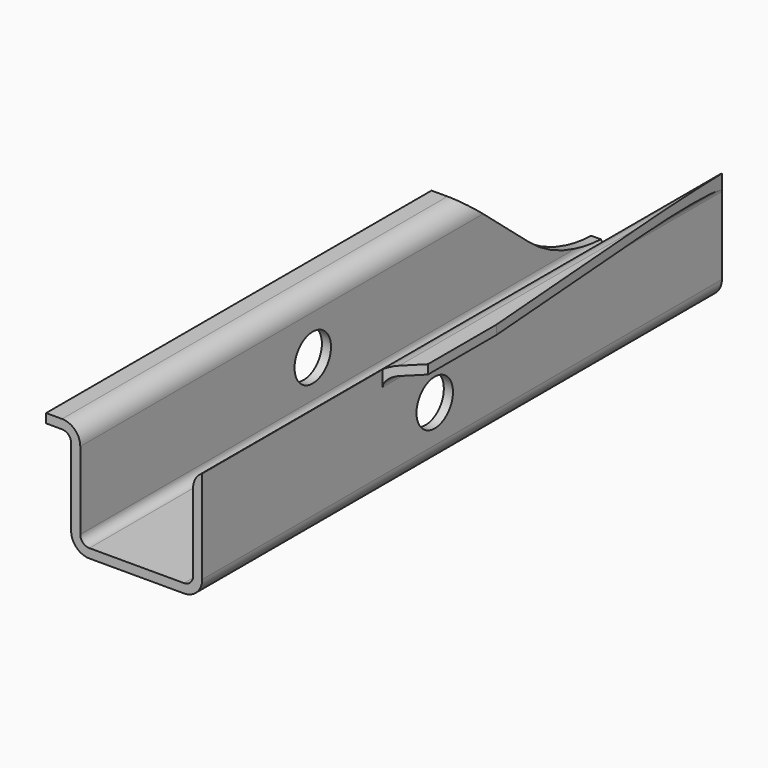
from build123d import *

# Parameters (mm, degrees)
F1_DEPTH = 114
F3_DEPTH = 25
F5_DEPTH = 5
F6_R     = 4
F7_DEPTH = 30
F9_DEPTH = 5


with BuildPart() as f1:
    # F0 (on Front) → F1 (new body)
    with BuildSketch(Plane.XZ):
        with BuildLine():
            ThreePointArc((-11.5, 3.2), (-10.5627416998, 0.9372583002), (-8.3, 0))
            Line((-8.3, 0), (0, 0))
            Line((0, 0), (8.3, 0))
            ThreePointArc((8.3, 0), (10.5627416998, 0.9372583002), (11.5, 3.2))
            Line((11.5, 3.2), (11.5, 16.8))
            ThreePointArc((11.5, 16.8), (11.9686291501, 17.9313708499), (13.1, 18.4))
            Line((13.1, 18.4), (15.9, 18.4))
            Line((15.9, 18.4), (15.9, 20))
            Line((15.9, 20), (13.1, 20))
            ThreePointArc((13.1, 20), (10.8372583002, 19.0627416998), (9.9, 16.8))
            Line((9.9, 16.8), (9.9, 3.2))
            ThreePointArc((9.9, 3.2), (9.4313708499, 2.0686291501), (8.3, 1.6))
            Line((8.3, 1.6), (0, 1.6))
            Line((0, 1.6), (-8.3, 1.6))
            ThreePointArc((-8.3, 1.6), (-9.4313708499, 2.0686291501), (-9.9, 3.2))
            Line((-9.9, 3.2), (-9.9, 16.8))
            ThreePointArc((-9.9, 16.8), (-10.8372583002, 19.0627416998), (-13.1, 20))
            Line((-13.1, 20), (-15.9, 20))
            Line((-15.9, 20), (-15.9, 18.4))
            Line((-15.9, 18.4), (-13.1, 18.4))
            ThreePointArc((-13.1, 18.4), (-11.9686291501, 17.9313708499), (-11.5, 16.8))
            Line((-11.5, 16.8), (-11.5, 3.2))
        make_face()
    extrude(amount=F1_DEPTH)

    # F2 (on face) → F3 (cut)
    with BuildSketch(Plane.XY.offset(1.6)):
        with BuildLine():
            ThreePointArc((-7, -46), (0, -53), (7, -46))
            Line((7, -46), (-7, -46))
        make_face()
        with BuildLine():
            Line((-7, -46), (7, -46))
            ThreePointArc((7, -46), (0, -39), (-7, -46))
        make_face()
        with BuildLine():
            Line((7, -80), (7, -46))
            ThreePointArc((7, -46), (0, -53), (-7, -46))
            Line((-7, -46), (-7, -80))
            ThreePointArc((-7, -80), (0, -73), (7, -80))
        make_face()
        with BuildLine():
            ThreePointArc((-7, -80), (0, -87), (7, -80))
            Line((7, -80), (-7, -80))
        make_face()
        with BuildLine():
            Line((-7, -80), (7, -80))
            ThreePointArc((7, -80), (0, -73), (-7, -80))
        make_face()
    extrude(amount=-F3_DEPTH, mode=Mode.SUBTRACT)

    # F4 (on face) → F5 (cut)
    with BuildSketch(Plane.XY.offset(20)):
        Polygon((-11.5, 0), (-15.9, 0), (-15.9, -55), align=None)
        Polygon((-11.5, -74.4), (-15.9, -70), (-15.9, -114), (-11.5, -114), align=None)
    extrude(amount=-F5_DEPTH, mode=Mode.SUBTRACT)

    # F6 (on face) → F7 (cut)
    with BuildSketch(Plane.YZ.offset(11.5)):
        with Locations((-63, 9.8)):
            Circle(F6_R)
    extrude(amount=-F7_DEPTH, mode=Mode.SUBTRACT)

    # F8 (on face) → F9 (cut, symmetric)
    with BuildSketch(Plane.YZ.offset(11.5)):
        with BuildLine():
            Line((-38.3930956715, 27.5), (-15.5696902422, 8.348888922))
            ThreePointArc((-15.5696902422, 8.348888922), (-8.0505035831, 4.0076844804), (0.5, 2.5))
            Line((0.5, 2.5), (5, 2.5))
            Line((5, 2.5), (5, 27.5))
            Line((5, 27.5), (-38.3930956715, 27.5))
        make_face()
    extrude(amount=F9_DEPTH, both=True, mode=Mode.SUBTRACT)


with BuildPart() as f10_1:
    # F10: instance of F1
    add(f1.part.mirror(Plane.YZ.offset(11.5)))


solid = f10_1.part
